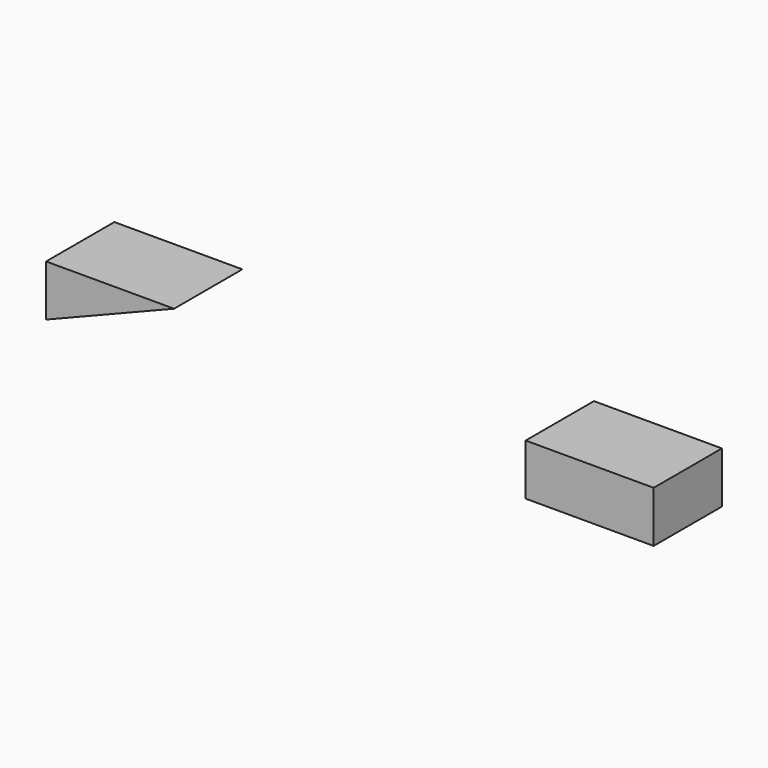
from build123d import *

# Parameters (mm, degrees)
F0_W     = 30
F0_H     = 20
F1_DEPTH = 12
F3_DEPTH = 20


with BuildPart() as f1:
    # F0 (on Top) → F1 (new body)
    with BuildSketch(Plane.XY):
        with Locations((-91.5137013793, 2.9215582088)):
            Rectangle(F0_W, F0_H)
    extrude(amount=F1_DEPTH)

    # F2 (on face) → F3 (intersect)
    with BuildSketch(Plane.XZ.offset(7.0784417912)):
        Polygon((-106.5137013793, 12), (-106.5137013793, 0), (-76.5137013793, 12), align=None)
    extrude(amount=-F3_DEPTH, mode=Mode.INTERSECT)


with BuildPart() as f1b:
    # F0 (on Top) → F1, piece 2 (new body)
    with BuildSketch(Plane.XY):
        with Locations((21.369265262, 2.3289385624)):
            Rectangle(F0_W, F0_H)
    extrude(amount=F1_DEPTH)


solid = Compound([f1.part, f1b.part])
